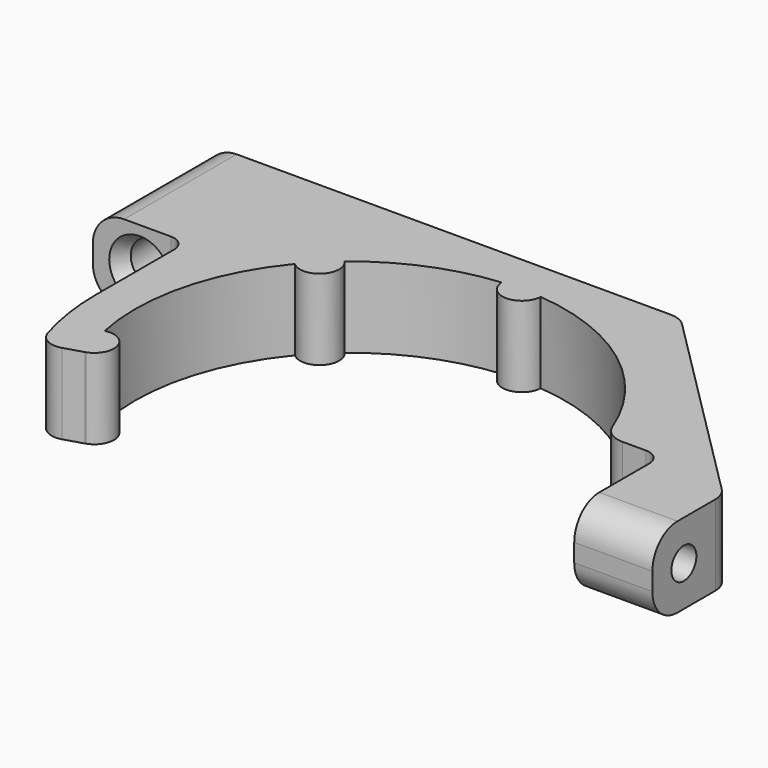
from build123d import *

# Parameters (mm, degrees)
F1_DEPTH = 13.081
F2_R     = 2.54
F3_DEPTH = 25.4
F4_R     = 3.4925
F5_DEPTH = 25.4
F6_SIZE2 = 1.4664696837
F6_SIZE  = 2.54
F7_R     = 5.08


with BuildPart() as f1:
    # F0 (on Top) → F1 (new body)
    with BuildSketch(Plane.XY):
        with BuildLine():
            ThreePointArc((3.1717183454, 34.7806818182), (21.0354315126, 27.8794950829), (32.574512842, 12.5959016393))
            ThreePointArc((32.574512842, 12.5959016393), (33.9739390049, 10.8274361777), (36.1280960611, 10.16))
            Line((36.1280960611, 10.16), (40.005, 10.16))
            ThreePointArc((40.005, 10.16), (41.8010512242, 9.4160512242), (42.545, 7.62))
            Line((42.545, 7.62), (42.545, -7.62))
            Line((42.545, -7.62), (55.245, -7.62))
            Line((55.245, -7.62), (55.245, 5.1702561211))
            ThreePointArc((55.245, 5.1702561211), (54.9549810189, 6.6282799984), (54.1290768363, 7.8643329574))
            Line((54.1290768363, 7.8643329574), (21.8343329574, 40.1590768363))
            ThreePointArc((21.8343329574, 40.1590768363), (20.5982799984, 40.9849810189), (19.1402561211, 41.275))
            Line((19.1402561211, 41.275), (0, 41.275))
            Line((0, 41.275), (-56.515, 41.275))
            Line((-56.515, 41.275), (-56.515, 18.415))
            Line((-56.515, 18.415), (-43.815, 18.415))
            ThreePointArc((-43.815, 18.415), (-42.0189487758, 17.6710512242), (-41.275, 15.875))
            Line((-41.275, 15.875), (-41.275, 0))
            ThreePointArc((-41.275, 0), (-40.8262821798, -6.0696217652), (-39.4898851183, -12.0072727273))
            ThreePointArc((-39.4898851183, -12.0072727273), (-37.9470586927, -13.8847124809), (-35.528565284, -14.1213198343))
            ThreePointArc((-35.528565284, -14.1213198343), (-34.7738270947, -13.7787585984), (-34.1334673575, -13.252529236))
            ThreePointArc((-34.1334673575, -13.252529236), (-33.3596724116, -11.8025855442), (-33.414518177, -10.16))
            ThreePointArc((-33.414518177, -10.16), (-33.8417993799, -8.6306569699), (-34.1991233561, -7.0834727836))
            ThreePointArc((-34.1991233561, -7.0834727836), (-33.8811086179, 8.4750282492), (-26.836399518, 22.3509124179))
            ThreePointArc((-26.836399518, 22.3509124179), (-24.6957043329, 24.6957043329), (-22.3509124179, 26.836399518))
            ThreePointArc((-22.3509124179, 26.836399518), (-13.3652188754, 32.266492673), (-3.1717183454, 34.7806818182))
            ThreePointArc((-3.1717183454, 34.7806818182), (0, 34.925), (3.1717183454, 34.7806818182))
        make_face()
        with BuildLine():
            ThreePointArc((-26.836399518, 22.3509124179), (-22.4506403027, 22.4506403027), (-22.3509124179, 26.836399518))
            ThreePointArc((-22.3509124179, 26.836399518), (-24.6957043329, 24.6957043329), (-26.836399518, 22.3509124179))
        make_face()
        with BuildLine():
            ThreePointArc((-32.3537599551, -13.1525602742), (-30.3768347063, -9.2363636364), (-34.1991233561, -7.0834727836))
            ThreePointArc((-34.1991233561, -7.0834727836), (-33.8417993799, -8.6306569699), (-33.414518177, -10.16))
            ThreePointArc((-33.414518177, -10.16), (-32.9181630162, -11.6683404405), (-32.3537599551, -13.1525602742))
        make_face()
        with BuildLine():
            ThreePointArc((-32.3537599551, -13.1525602742), (-32.9181630162, -11.6683404405), (-33.414518177, -10.16))
            ThreePointArc((-33.414518177, -10.16), (-33.3596724116, -11.8025855442), (-34.1334673575, -13.252529236))
            ThreePointArc((-34.1334673575, -13.252529236), (-33.3085642944, -13.333231598), (-32.4908818133, -13.1976834706))
            ThreePointArc((-32.4908818133, -13.1976834706), (-32.422064403, -13.175901276), (-32.3537599551, -13.1525602742))
        make_face()
        with BuildLine():
            ThreePointArc((-32.4908818133, -13.1976834706), (-33.3085642944, -13.333231598), (-34.1334673575, -13.252529236))
            ThreePointArc((-34.1334673575, -13.252529236), (-34.7738270947, -13.7787585984), (-35.528565284, -14.1213198343))
            Line((-35.528565284, -14.1213198343), (-32.4908818133, -13.1976834706))
        make_face()
        with BuildLine():
            ThreePointArc((-3.1717183454, 34.7806818182), (0, 31.75), (3.1717183454, 34.7806818182))
            ThreePointArc((3.1717183454, 34.7806818182), (0, 34.925), (-3.1717183454, 34.7806818182))
        make_face()
    extrude(amount=F1_DEPTH)

    # F2 (on face) → F3 (cut)
    with BuildSketch(Plane.YZ.offset(55.245)):
        with Locations((-1.2248719395, 6.5405)):
            Circle(F2_R)
    extrude(amount=-F3_DEPTH, mode=Mode.SUBTRACT)

    # F4 (on face) → F5 (cut)
    with BuildSketch(Plane(origin=(0, 41.275, 0), x_dir=(-1, 0, 0), z_dir=(0, 1, 0))):
        with Locations((48.895, 6.5405)):
            Circle(F4_R)
    extrude(amount=-F5_DEPTH, mode=Mode.SUBTRACT)

    # F6
    f6_edges = [f1.edges().sort_by_distance(p)[0] for p in [
        (-45.4025, 41.275, 6.5405),
        (-45.4025, 18.415, 6.5405),
    ]]
    f6_side = f1.faces().sort_by_distance((-45.4025, 29.845, 6.5405))[0]
    chamfer(f6_edges, length=F6_SIZE, length2=F6_SIZE2, reference=f6_side)

    # F7
    f7_edges = [f1.edges().sort_by_distance(p)[0] for p in [
        (-56.515, 29.845, 13.081),
        (-56.515, 29.845, 0),
        (48.895, -7.62, 13.081),
        (48.895, -7.62, 0),
    ]]
    fillet(f7_edges, radius=F7_R)


solid = f1.part
